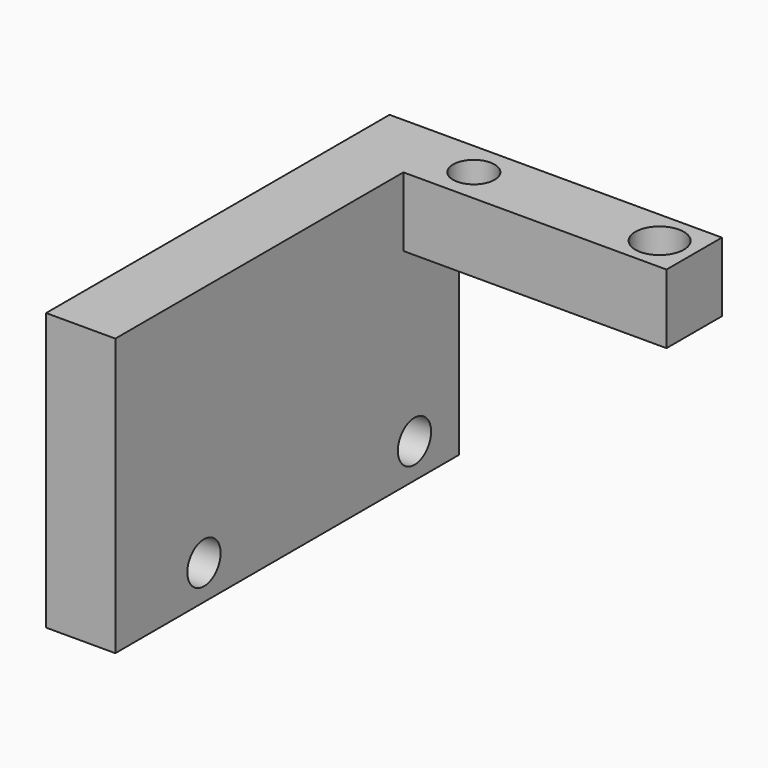
from build123d import *

# Parameters (mm, degrees)
F0_R     = 1.5
F1_DEPTH = 5
F2_R     = 1.75
F4_DEPTH = 7
F3_W     = 5
F3_H     = 31
F5_DEPTH = 20
F6_R     = 1.5
F7_DEPTH = 25


with BuildPart() as f1:
    # F0 (on Top) → F1 (new body)
    with BuildSketch(Plane.XY):
        Polygon((24, 0), (0, 0), (0, -31), (5, -31), (5, -5), (24, -5), align=None)
        with Locations((8.085881, -2.5)):
            Circle(F0_R, mode=Mode.SUBTRACT)
    extrude(amount=F1_DEPTH)

    # F2 (on Top) → F4 (cut)
    with BuildSketch(Plane.XY):
        with Locations((21.5, -2.5)):
            Circle(F2_R)
    extrude(amount=F4_DEPTH, mode=Mode.SUBTRACT)

    # F3 (on face) → F5 (join)
    with BuildSketch(Plane.XY.offset(5)):
        with Locations((2.5, -15.5)):
            Rectangle(F3_W, F3_H)
    extrude(amount=-F5_DEPTH)

    # F6 (on face) → F7 (cut)
    with BuildSketch(Plane(origin=(0, 0, 0), x_dir=(0, -1, 0), z_dir=(-1, 0, 0))):
        with Locations((23, -12.5)):
            Circle(F6_R)
        with Locations((4, -12.5)):
            Circle(F6_R)
    extrude(amount=-F7_DEPTH, mode=Mode.SUBTRACT)


solid = f1.part
